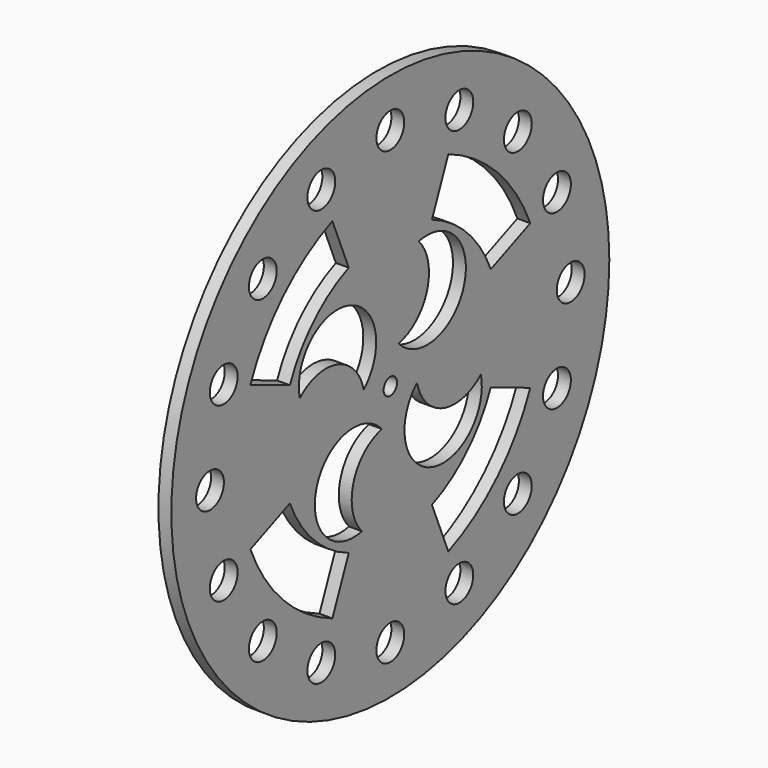
from build123d import *

# Parameters (mm, degrees)
F0_R     = 53.975
F0_R_2   = 3.429
F0_R_3   = 1.651
F1_DEPTH = 2.54


with BuildPart() as f1:
    # F0 (on Right) → F1 (new body)
    with BuildSketch(Plane.YZ):
        Circle(F0_R)
        with Locations((-31.430896, -31.430896)):
            Circle(F0_R_2, mode=Mode.SUBTRACT)
        with Locations((-17.010279, -41.066445)):
            Circle(F0_R_2, mode=Mode.SUBTRACT)
        with Locations((-41.066445, -17.010279)):
            Circle(F0_R_2, mode=Mode.SUBTRACT)
        with BuildLine():
            ThreePointArc((-14.285149, -34.487401), (-26.395514, -26.395514), (-34.487401, -14.285149))
            Line((-34.487401, -14.285149), (-24.757027, -10.254696))
            ThreePointArc((-24.757027, -10.254696), (-18.948208, -18.948208), (-10.254696, -24.757027))
            Line((-10.254696, -24.757027), (-14.285149, -34.487401))
        make_face(mode=Mode.SUBTRACT)
        with BuildLine():
            ThreePointArc((-7.017803, -22.315191), (-18.172542, -10.16), (-2.068468, -6.577309))
            ThreePointArc((-2.068468, -6.577309), (-9.086271, -13.0175), (-7.017803, -22.315191))
        make_face(mode=Mode.SUBTRACT)
        with Locations((0, -44.45)):
            Circle(F0_R_2, mode=Mode.SUBTRACT)
        with Locations((17.010279, -41.066445)):
            Circle(F0_R_2, mode=Mode.SUBTRACT)
        with Locations((31.430896, -31.430896)):
            Circle(F0_R_2, mode=Mode.SUBTRACT)
        with BuildLine():
            ThreePointArc((10.254696, -24.757027), (18.948208, -18.948208), (24.757027, -10.254696))
            Line((24.757027, -10.254696), (34.487401, -14.285149))
            ThreePointArc((34.487401, -14.285149), (26.395514, -26.395514), (14.285149, -34.487401))
            Line((14.285149, -34.487401), (10.254696, -24.757027))
        make_face(mode=Mode.SUBTRACT)
        with BuildLine():
            ThreePointArc((22.315191, -7.017803), (10.16, -18.172542), (6.577309, -2.068468))
            ThreePointArc((6.577309, -2.068468), (13.0175, -9.086271), (22.315191, -7.017803))
        make_face(mode=Mode.SUBTRACT)
        with Locations((41.066445, -17.010279)):
            Circle(F0_R_2, mode=Mode.SUBTRACT)
        with Locations((-44.45, 0)):
            Circle(F0_R_2, mode=Mode.SUBTRACT)
        with Locations((-41.066445, 17.010279)):
            Circle(F0_R_2, mode=Mode.SUBTRACT)
        with BuildLine():
            ThreePointArc((-22.315191, 7.017803), (-10.16, 18.172542), (-6.577309, 2.068468))
            ThreePointArc((-6.577309, 2.068468), (-13.0175, 9.086271), (-22.315191, 7.017803))
        make_face(mode=Mode.SUBTRACT)
        with BuildLine():
            ThreePointArc((-34.487401, 14.285149), (-26.395514, 26.395514), (-14.285149, 34.487401))
            Line((-14.285149, 34.487401), (-10.254696, 24.757027))
            ThreePointArc((-10.254696, 24.757027), (-18.948208, 18.948208), (-24.757027, 10.254696))
            Line((-24.757027, 10.254696), (-34.487401, 14.285149))
        make_face(mode=Mode.SUBTRACT)
        with Locations((-31.430896, 31.430896)):
            Circle(F0_R_2, mode=Mode.SUBTRACT)
        with Locations((-17.010279, 41.066445)):
            Circle(F0_R_2, mode=Mode.SUBTRACT)
        Circle(F0_R_3, mode=Mode.SUBTRACT)
        with BuildLine():
            ThreePointArc((7.017803, 22.315191), (18.172542, 10.16), (2.068468, 6.577309))
            ThreePointArc((2.068468, 6.577309), (9.086271, 13.0175), (7.017803, 22.315191))
        make_face(mode=Mode.SUBTRACT)
        with BuildLine():
            Line((34.487401, 14.285149), (24.757027, 10.254696))
            ThreePointArc((24.757027, 10.254696), (18.948208, 18.948208), (10.254696, 24.757027))
            Line((10.254696, 24.757027), (14.285149, 34.487401))
            ThreePointArc((14.285149, 34.487401), (26.395514, 26.395514), (34.487401, 14.285149))
        make_face(mode=Mode.SUBTRACT)
        with Locations((44.45, 0)):
            Circle(F0_R_2, mode=Mode.SUBTRACT)
        with Locations((41.066445, 17.010279)):
            Circle(F0_R_2, mode=Mode.SUBTRACT)
        with Locations((0, 44.45)):
            Circle(F0_R_2, mode=Mode.SUBTRACT)
        with Locations((17.010279, 41.066445)):
            Circle(F0_R_2, mode=Mode.SUBTRACT)
        with Locations((31.430896, 31.430896)):
            Circle(F0_R_2, mode=Mode.SUBTRACT)
    extrude(amount=F1_DEPTH)


solid = f1.part
